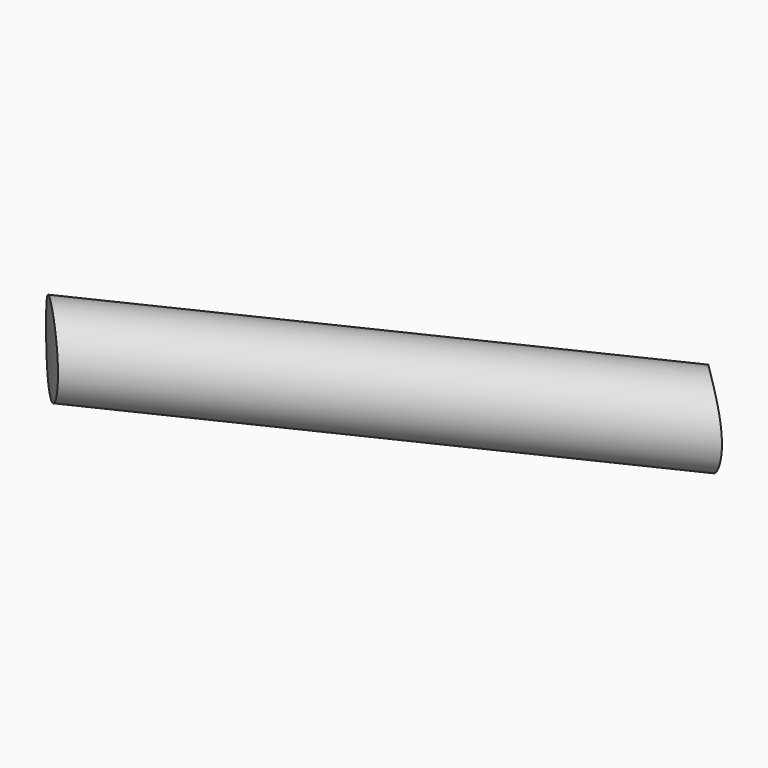
from build123d import *

# Parameters (mm, degrees)
CYLINDER015_R               = 50
CYLINDER015_DEPTH           = 67
CYLINDER014_R               = 55
CYLINDER014_DEPTH           = 67
CYLINDER013_R               = 13
CYLINDER013_DEPTH           = 60
CYLINDER012_R               = 3
CYLINDER012_DEPTH           = 54
CYLINDER012_PLACEMENT_ANGLE = 80
CUT009_PLACEMENT_ANGLE      = 45


with BuildPart() as inner001:
    # Cylinder015 → Cylinder015 (new body)
    with BuildSketch(Plane.XY):
        Circle(CYLINDER015_R)
    extrude(amount=CYLINDER015_DEPTH)


with BuildPart() as case001:
    # Cylinder014 → Cylinder014 (new body)
    with BuildSketch(Plane.XY):
        Circle(CYLINDER014_R)
    extrude(amount=CYLINDER014_DEPTH)

    # Cut008: cut Inner001
    add(inner001.part, mode=Mode.SUBTRACT)


with BuildPart() as cylinder016:
    # Cylinder013 → Cylinder013 (new body)
    with BuildSketch(Plane.XY):
        Circle(CYLINDER013_R)
    extrude(amount=CYLINDER013_DEPTH)


with BuildPart() as support_final:
    # Cylinder012 → Cylinder012 (new body)
    with BuildSketch(Plane.XY):
        Circle(CYLINDER012_R)
    extrude(amount=CYLINDER012_DEPTH)


with BuildPart() as support_final_1:
    # Cylinder012 placement: moved
    add(support_final.part.moved(Location((0, 0, 25))).rotate(Axis((0, 0, 25), (0, 1, 0)), CYLINDER012_PLACEMENT_ANGLE))

    # Cut007: cut Cylinder016
    add(cylinder016.part, mode=Mode.SUBTRACT)

    # Cut009: cut Case001
    add(case001.part, mode=Mode.SUBTRACT)


with BuildPart() as support_final_2:
    # Cut009 placement: moved
    add(support_final_1.part.rotate(Axis((0, 0, 0), (0, 0, 1)), CUT009_PLACEMENT_ANGLE))


with BuildPart() as part_mirroring001:
    # Part__Mirroring001: instance of Support Final
    add(support_final_2.part.mirror(Plane(origin=(0, 0, 0), x_dir=(0, -1, 0), z_dir=(1, 0, 0))))


with BuildPart() as part_mirroring003:
    # Part__Mirroring003: instance of Part__Mirroring001
    add(part_mirroring001.part.mirror(Plane(origin=(0, 0, 0), x_dir=(1, 0, 0), z_dir=(0, 1, 0))))


solid = part_mirroring003.part
